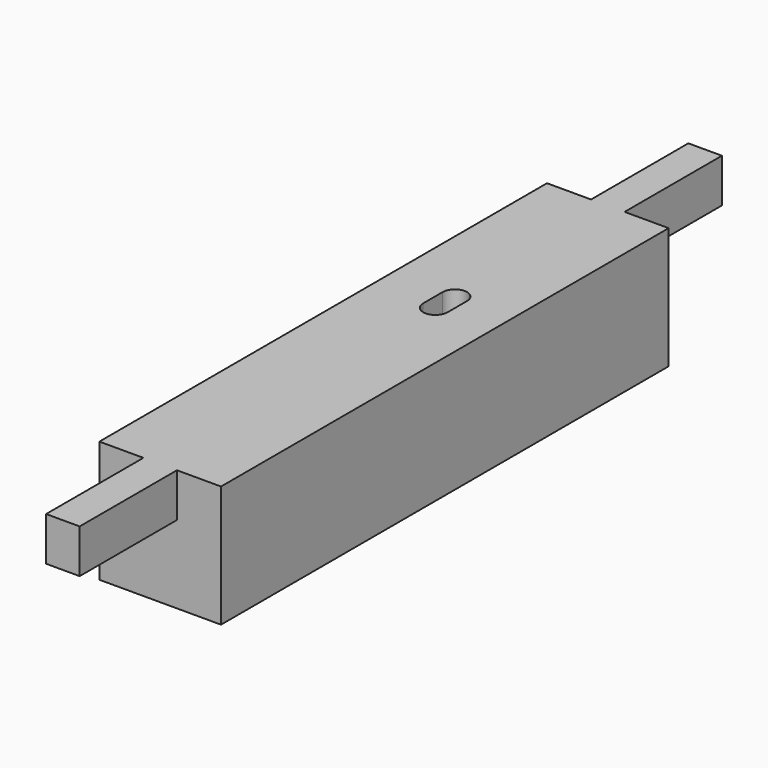
from build123d import *

# Parameters (mm, degrees)
F0_W          = 25
F0_H          = 25
F1_DEPTH      = 115
F2_W          = 6.9
F2_H          = 9
F3_DEPTH      = 25
F3_DEPTH_BACK = 140
F5_DEPTH      = 26


with BuildPart() as f1:
    # F0 (on Front) → F1 (new body)
    with BuildSketch(Plane.XZ):
        with Locations((4.684485, 2.3731)):
            Rectangle(F0_W, F0_H)
    extrude(amount=F1_DEPTH)

    # F2 (on face) → F3 (join, two sides)
    with BuildSketch(Plane.XZ.offset(115)) as f3_sk:
        with Locations((4.684485, 10.3731)):
            Rectangle(F2_W, F2_H)
    extrude(amount=F3_DEPTH)
    extrude(f3_sk.sketch, amount=-F3_DEPTH_BACK)

    # F4 (on face) → F5 (cut)
    with BuildSketch(Plane.XY.offset(14.8731)):
        with BuildLine():
            ThreePointArc((7.744195, -40), (5.244195, -37.5), (2.744195, -40))
            Line((2.744195, -40), (2.744195, -45))
            ThreePointArc((2.744195, -45), (5.244195, -47.5), (7.744195, -45))
            Line((7.744195, -45), (7.744195, -40))
        make_face()
    extrude(amount=-F5_DEPTH, mode=Mode.SUBTRACT)


solid = f1.part
